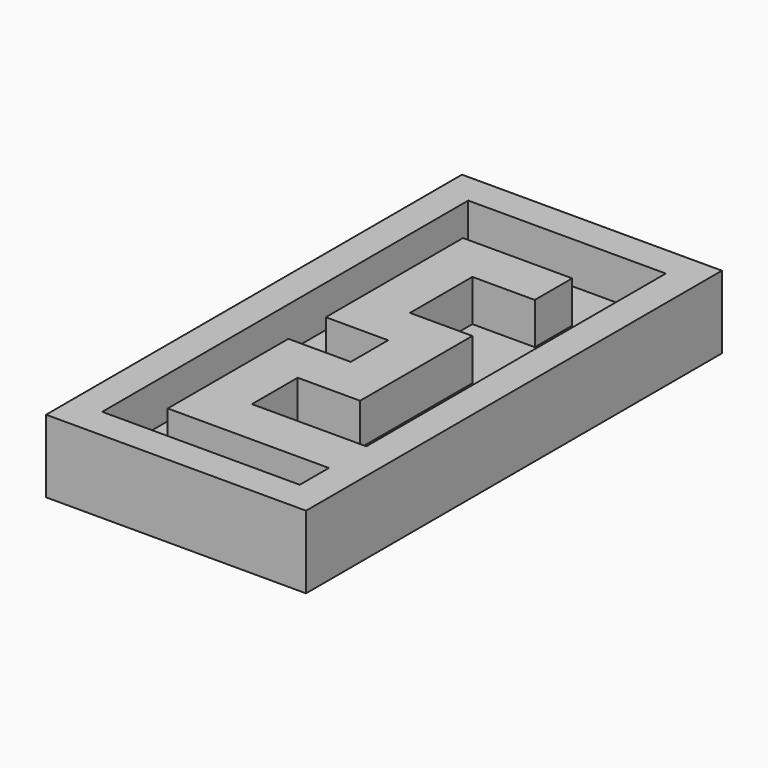
from build123d import *

# Parameters (mm, degrees)
F0_W     = 5
F0_H     = 10
F1_DEPTH = 1.4
F2_T     = -0.6
F4_DEPTH = 0.8


with BuildPart() as f1:
    # F0 (on Top) → F1 (new body)
    with BuildSketch(Plane.XY):
        with Locations((4.9427011982, 1.6260683693)):
            Rectangle(F0_W, F0_H)
    extrude(amount=F1_DEPTH)

    # F2
    f2_openings = [f1.faces().sort_by_distance(p)[0] for p in [
        (4.942701, 1.626068, 1.4),
    ]]
    offset(amount=F2_T, openings=f2_openings)

    # F3 (on face) → F4 (join)
    with BuildSketch(Plane.XY.offset(0.6)):
        Polygon((6.8427011982, -2.0739316307), (6.8427011982, -1.1739316307), (4.6427011982, -1.1739316307), (4.6427011982, -0.0739316307), (5.8427011982, -0.0739316307), (5.8427011982, 2.6260683693), (4.6427011982, 2.6260683693), (4.6427011982, 4.1260683693), (5.8427011982, 4.1260683693), (5.8427011982, 5.0260683693), (3.7427011982, 5.0260683693), (3.7427011982, 1.7260683693), (4.9427011982, 1.7260683693), (4.9427011982, 0.8260683693), (3.7427011982, 0.8260683693), (3.7427011982, -2.0739316307), align=None)
    extrude(amount=F4_DEPTH)


solid = f1.part
